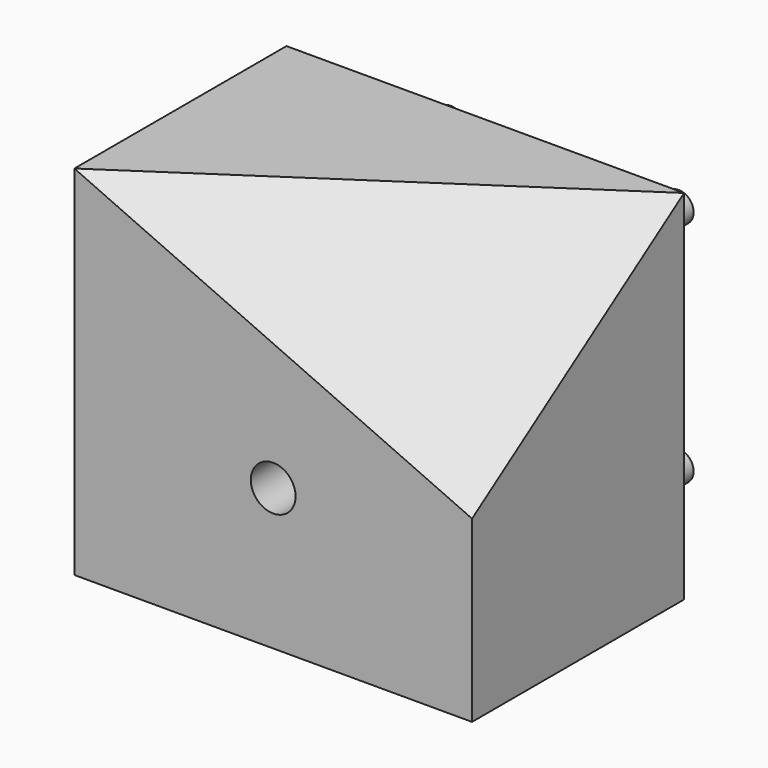
from build123d import *

# Parameters (mm, degrees)
F0_W     = 60
F0_H     = 54
F1_DEPTH = 40
F2_R     = 2.5
F3_DEPTH = 15
F3_TAPER = 1
F4_R     = 3.375
F5_DEPTH = 40
F8_W     = 83.198
F8_H     = 59.4474617392
F9_DEPTH = 25


with BuildPart() as f1:
    # F0 (on Front) → F1 (new body)
    with BuildSketch(Plane.XZ):
        Rectangle(F0_W, F0_H)
    extrude(amount=F1_DEPTH)

    # F2 (on face) → F3 (join)
    with BuildSketch(Plane(origin=(0, 0, 0), x_dir=(-1, 0, 0), z_dir=(0, 1, 0))):
        with Locations((-17.2, 14.9)):
            Circle(F2_R)
        with Locations((17.2, 14.9)):
            Circle(F2_R)
        with Locations((17.2, -19.5)):
            Circle(F2_R)
        with Locations((-17.2, -19.5)):
            Circle(F2_R)
    extrude(amount=F3_DEPTH, taper=F3_TAPER)

    # F4 (on face) → F5 (cut, through all)
    with BuildSketch(Plane.XZ.offset(40)):
        with Locations((0, -5.7)):
            Circle(F4_R)
    extrude(amount=-F5_DEPTH, mode=Mode.SUBTRACT)

    # F8 (on 3pt) → F9 (cut)
    with BuildSketch(Plane(origin=(10.9913305692, -16.4869958538, 24.4251790426), x_dir=(0.9369493608, 0.1955162685, -0.2896537311), z_dir=(0.3494651559, -0.5241977339, 0.7765892354))):
        with Locations((-3.7034322848, -10.5544058606)):
            Rectangle(F8_W, F8_H)
    extrude(amount=F9_DEPTH, mode=Mode.SUBTRACT)


solid = f1.part
